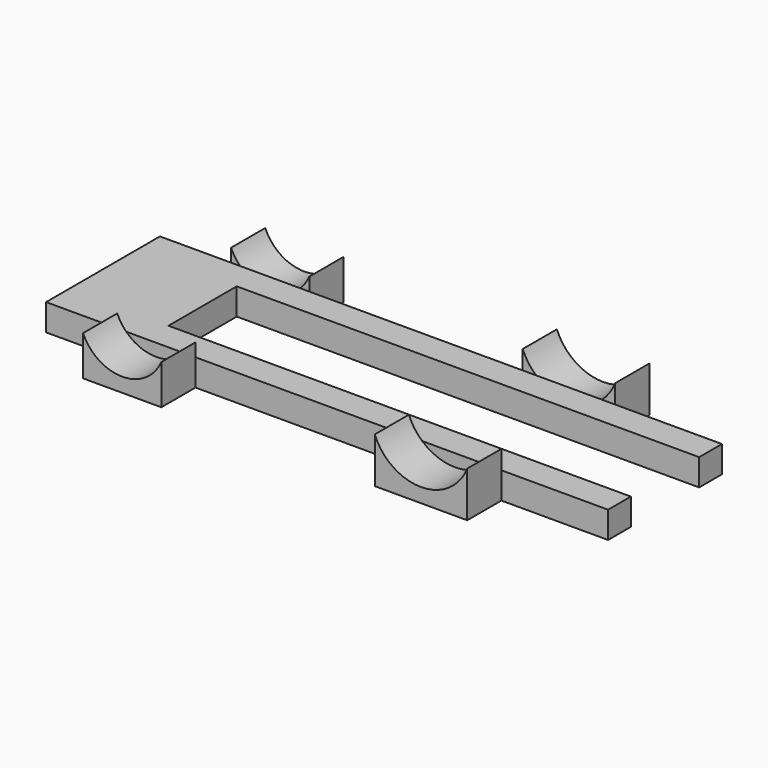
from build123d import *

# Parameters (mm, degrees)
BOX016_W          = 54
BOX016_H          = 20
BOX016_DEPTH      = 10
CYLINDER001_R     = 7
CYLINDER001_DEPTH = 32
BOX015_W          = 13
BOX015_H          = 32
BOX015_DEPTH      = 8
CYLINDER_R        = 6
CYLINDER_DEPTH    = 32
BOX_W             = 11
BOX_H             = 32
BOX_DEPTH         = 8
BOX017_W          = 71
BOX017_H          = 12
BOX017_DEPTH      = 3.75
BOX008_W          = 79
BOX008_H          = 20
BOX008_DEPTH      = 3.75


with BuildPart() as basecutout:
    # Box016 → Box016 (new body)
    with BuildSketch(Plane(origin=(-5.5, 6, 0), x_dir=(1, 0, 0), z_dir=(0, 0, 1))):
        with Locations((27, 10)):
            Rectangle(BOX016_W, BOX016_H)
    extrude(amount=BOX016_DEPTH)


with BuildPart() as cylinder001:
    # Cylinder001 → Cylinder001 (new body)
    with BuildSketch(Plane(origin=(42, 0, 9), x_dir=(1, 0, 0), z_dir=(0, 1, 0))):
        Circle(CYLINDER001_R)
    extrude(amount=CYLINDER001_DEPTH)


with BuildPart() as rearaxle:
    # Box015 → Box015 (new body)
    with BuildSketch(Plane(origin=(35.5, 0, 0), x_dir=(1, 0, 0), z_dir=(0, 0, 1))):
        with Locations((6.5, 16)):
            Rectangle(BOX015_W, BOX015_H)
    extrude(amount=BOX015_DEPTH)

    # Cut004: cut Cylinder001
    add(cylinder001.part, mode=Mode.SUBTRACT)


with BuildPart() as cylinder:
    # Cylinder → Cylinder (new body)
    with BuildSketch(Plane(origin=(0, 0, 8), x_dir=(1, 0, 0), z_dir=(0, 1, 0))):
        Circle(CYLINDER_R)
    extrude(amount=CYLINDER_DEPTH)


with BuildPart() as cut005:
    # Box → Box (new body)
    with BuildSketch(Plane(origin=(-5.5, 0, 0), x_dir=(1, 0, 0), z_dir=(0, 0, 1))):
        with Locations((5.5, 16)):
            Rectangle(BOX_W, BOX_H)
    extrude(amount=BOX_DEPTH)

    # Cut: cut Cylinder
    add(cylinder.part, mode=Mode.SUBTRACT)

    # Fusion: union RearAxle
    add(rearaxle.part)

    # Cut005: cut basecutout
    add(basecutout.part, mode=Mode.SUBTRACT)


with BuildPart() as basecutout001:
    # Box017 → Box017 (new body)
    with BuildSketch(Plane(origin=(-1.5, 10, 0), x_dir=(1, 0, 0), z_dir=(0, 0, 1))):
        with Locations((35.5, 6)):
            Rectangle(BOX017_W, BOX017_H)
    extrude(amount=BOX017_DEPTH)


with BuildPart() as cut006:
    # Box008 → Box008 (new body)
    with BuildSketch(Plane(origin=(-15.5, 6, 0), x_dir=(1, 0, 0), z_dir=(0, 0, 1))):
        with Locations((39.5, 10)):
            Rectangle(BOX008_W, BOX008_H)
    extrude(amount=BOX008_DEPTH)

    # Cut006: cut basecutout001
    add(basecutout001.part, mode=Mode.SUBTRACT)


solid = Compound([cut005.part, cut006.part])
